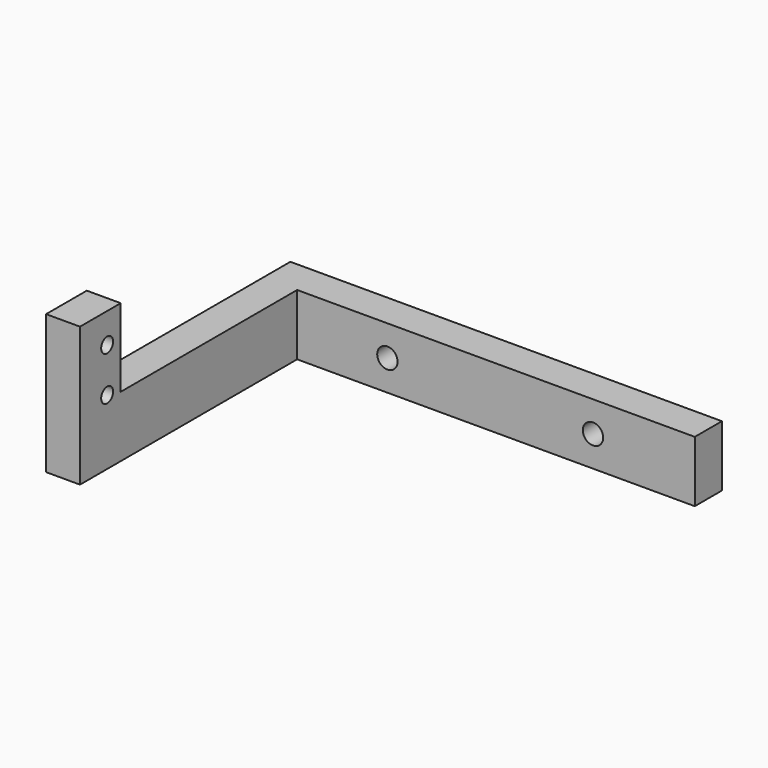
from build123d import *

# Parameters (mm, degrees)
F0_W     = 63.6
F0_H     = 9
F0_R     = 1.5
F1_DEPTH = 5
F2_W     = 5
F2_H     = 9
F3_DEPTH = 40
F4_W     = 5
F4_H     = 7.5
F5_DEPTH = 11.5
F6_R     = 1.1
F7_DEPTH = 5.001


with BuildPart() as f1:
    # F0 (on Front) → F1 (new body)
    with BuildSketch(Plane.XZ):
        Rectangle(F0_W, F0_H)
        with Locations((-13.5, 0)):
            Circle(F0_R, mode=Mode.SUBTRACT)
        with Locations((16.8, 0)):
            Circle(F0_R, mode=Mode.SUBTRACT)
    extrude(amount=F1_DEPTH)

    # F2 (on face) → F3 (join)
    with BuildSketch(Plane.XZ.offset(5)):
        with Locations((-29.3, 0)):
            Rectangle(F2_W, F2_H)
    extrude(amount=F3_DEPTH)

    # F4 (on face) → F5 (join)
    with BuildSketch(Plane.XY.offset(4.5)):
        with Locations((-29.3, -41.25)):
            Rectangle(F4_W, F4_H)
    extrude(amount=F5_DEPTH)

    # F6 (on face) → F7 (cut, through all)
    with BuildSketch(Plane.YZ.offset(-26.8)):
        with Locations((-40, 5.1)):
            Circle(F6_R)
        with Locations((-40, 11.6)):
            Circle(F6_R)
    extrude(amount=-F7_DEPTH, mode=Mode.SUBTRACT)


solid = f1.part
